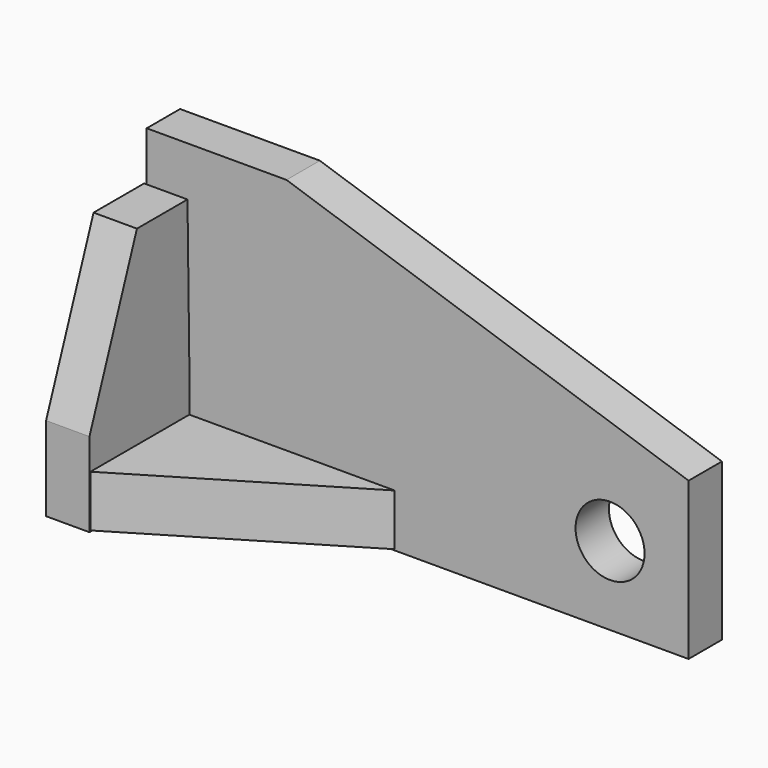
from build123d import *

# Parameters (mm, degrees)
F1_DEPTH = 6.35
F3_DEPTH = 52.578
F4_DEPTH = 45.974
F6_DEPTH = 4.064
F7_DEPTH = 3.81
F8_R     = 5.2545700387
F9_DEPTH = 25.4


with BuildPart() as f1:
    # F0 (on Front) → F1 (new body)
    with BuildSketch(Plane.XZ):
        Polygon((-31.1878696084, 40.077868849), (-52.4655729532, 40.077868849), (-52.4655729532, -4.226393532), (30.0219655037, -4.226393532), (30.0219655037, 19.6718552087), align=None)
    extrude(amount=F1_DEPTH)

    # F2 (on Right) → F3 (join)
    with BuildSketch(Plane.YZ):
        Polygon((-6.1209839769, -4.226393532), (-6.7039346322, 32.7909812331), (-16.3226239383, 32.7909812331), (-25.3583602607, 8.5985241458), (-25.3583602607, -4.226393532), align=None)
    extrude(amount=-F3_DEPTH)

    # F4 (cut): a face of the model
    f4_faces = [f1.faces().sort_by_distance(p)[0] for p in [
        (0, -14.7154551351, 12.274399221),
    ]]
    extrude(f4_faces, amount=-F4_DEPTH, mode=Mode.SUBTRACT)

    # F5 (on Top) → F6 (join)
    with BuildSketch(Plane.XY):
        Polygon((-46.0531152785, -6.2667215243), (-46.0531152785, -25.212623179), (-14.5737715065, -6.2667215243), align=None)
    extrude(amount=-F6_DEPTH)

    # F7 (add): a face of the model
    f7_faces = [f1.faces().sort_by_distance(p)[0] for p in [
        (-35.5533806316, -12.6216691671, 0),
    ]]
    extrude(f7_faces, amount=F7_DEPTH)

    # F8 (on face) → F9 (cut)
    with BuildSketch(Plane.XZ.offset(6.35)):
        with Locations((18.0714763701, 7.7227308384)):
            Circle(F8_R)
    extrude(amount=-F9_DEPTH, mode=Mode.SUBTRACT)


solid = f1.part
